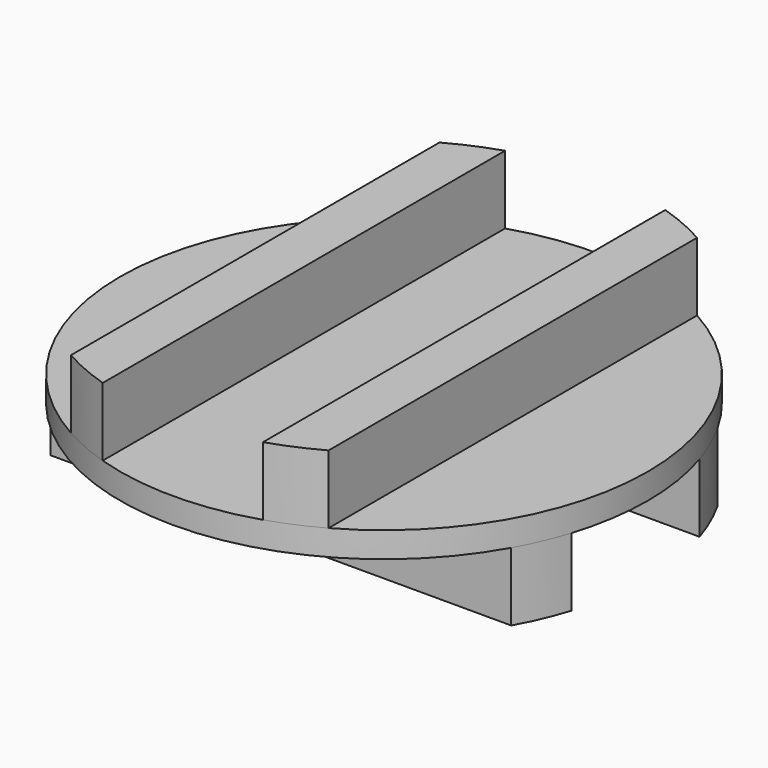
from build123d import *

# Parameters (mm, degrees)
F0_R          = 20.6375
F1_DEPTH      = 1
F1_DEPTH_BACK = 1
F3_DEPTH      = 5.35
F5_DEPTH      = 5.35


with BuildPart() as f1:
    # F0 (on Top) → F1 (new body, two sides)
    with BuildSketch(Plane.XY) as f1_sk:
        Circle(F0_R)
    extrude(amount=F1_DEPTH)
    extrude(f1_sk.sketch, amount=-F1_DEPTH_BACK)

    # F2 (on face) → F3 (join)
    with BuildSketch(Plane.XY.offset(1)):
        with BuildLine():
            Line((-10.0775, 18.009731), (-10.0775, -18.009731))
            ThreePointArc((-10.0775, -18.009731), (-8.214189, -18.93234), (-6.2675, -19.662778))
            Line((-6.2675, -19.662778), (-6.2675, 19.662778))
            ThreePointArc((-6.2675, 19.662778), (-8.214189, 18.93234), (-10.0775, 18.009731))
        make_face()
        with BuildLine():
            Line((6.2675, 19.662778), (6.2675, -19.662778))
            ThreePointArc((6.2675, -19.662778), (8.214189, -18.93234), (10.0775, -18.009731))
            Line((10.0775, -18.009731), (10.0775, 18.009731))
            ThreePointArc((10.0775, 18.009731), (8.214189, 18.93234), (6.2675, 19.662778))
        make_face()
    extrude(amount=F3_DEPTH)

    # F4 (on face) → F5 (join)
    with BuildSketch(Plane(origin=(0, 0, -1), x_dir=(1, 0, 0), z_dir=(0, 0, -1))):
        with BuildLine():
            Line((18.009731, 10.0775), (-18.009731, 10.0775))
            ThreePointArc((-18.009731, 10.0775), (-18.93234, 8.214189), (-19.662778, 6.2675))
            Line((-19.662778, 6.2675), (19.662778, 6.2675))
            ThreePointArc((19.662778, 6.2675), (18.93234, 8.214189), (18.009731, 10.0775))
        make_face()
        with BuildLine():
            Line((19.662778, -6.2675), (-19.662778, -6.2675))
            ThreePointArc((-19.662778, -6.2675), (-18.93234, -8.214189), (-18.009731, -10.0775))
            Line((-18.009731, -10.0775), (18.009731, -10.0775))
            ThreePointArc((18.009731, -10.0775), (18.93234, -8.214189), (19.662778, -6.2675))
        make_face()
    extrude(amount=F5_DEPTH)


solid = f1.part
